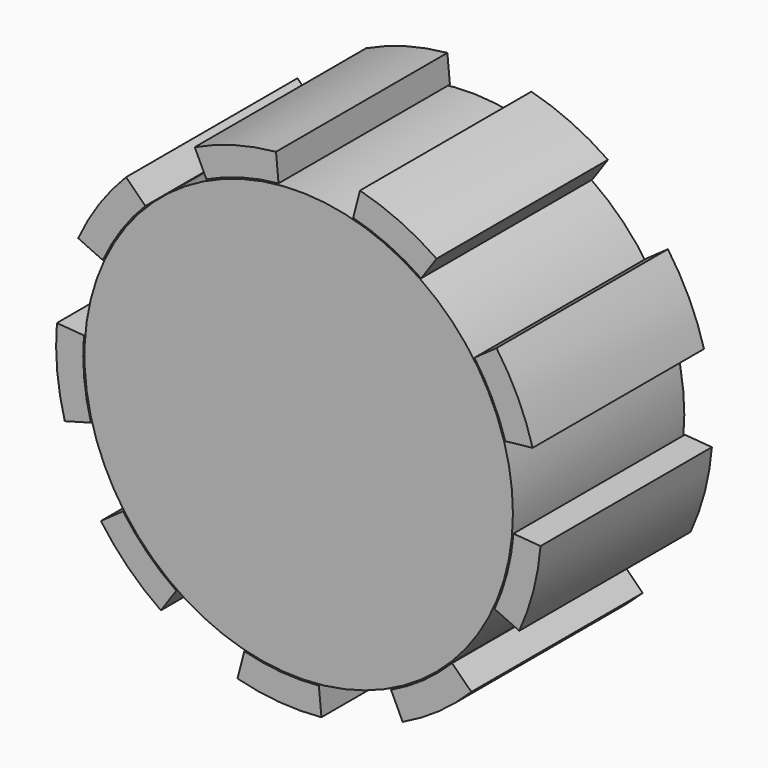
from build123d import *

# Parameters (mm, degrees)
F0_R     = 35
F1_DEPTH = 35
F4_DEPTH = 35


with BuildPart() as f1:
    # F0 (on Front) → F1 (new body)
    with BuildSketch(Plane.XZ):
        Circle(F0_R)
    extrude(amount=F1_DEPTH)


with BuildPart() as f4:
    # F3 (on face) → F4 (new body)
    with BuildSketch(Plane.XZ.offset(35)):
        with BuildLine():
            ThreePointArc((-20.005296, -28.970051), (-24.731967, -25.056048), (-28.70717, -20.380729))
            Line((-28.70717, -20.380729), (-32.319766, -22.945501))
            ThreePointArc((-32.319766, -22.945501), (-27.844312, -28.209175), (-22.522822, -32.615729))
            Line((-22.522822, -32.615729), (-20.005296, -28.970051))
        make_face()
        with BuildLine():
            ThreePointArc((3.296644, -35.051503), (-2.840069, -35.091448), (-8.890488, -34.065157))
            Line((-8.890488, -34.065157), (-10.009293, -38.352018))
            ThreePointArc((-10.009293, -38.352018), (-3.197472, -39.507461), (3.711504, -39.462489))
            Line((3.711504, -39.462489), (3.296644, -35.051503))
        make_face()
        with BuildLine():
            ThreePointArc((25.056048, -24.731967), (20.380729, -28.70717), (15.086152, -31.81012))
            Line((15.086152, -31.81012), (16.984639, -35.8132))
            ThreePointArc((16.984639, -35.8132), (22.945501, -32.319766), (28.209175, -27.844312))
            Line((28.209175, -27.844312), (25.056048, -24.731967))
        make_face()
        with BuildLine():
            ThreePointArc((35.091448, -2.840069), (34.065157, -8.890488), (32.003814, -14.670774))
            Line((32.003814, -14.670774), (36.031269, -16.516988))
            ThreePointArc((36.031269, -16.516988), (38.352018, -10.009293), (39.507461, -3.197472))
            Line((39.507461, -3.197472), (35.091448, -2.840069))
        make_face()
        with BuildLine():
            ThreePointArc((28.70717, 20.380729), (31.654838, 15.409314), (33.749412, 10.02262))
            Line((33.749412, 10.02262), (38.218469, 10.507707))
            ThreePointArc((38.218469, 10.507707), (35.8132, 16.984639), (32.319766, 22.945501))
            Line((32.319766, 22.945501), (28.70717, 20.380729))
        make_face()
        with BuildLine():
            Line((10.009293, 38.352018), (8.890488, 34.065157))
            ThreePointArc((8.890488, 34.065157), (14.670774, 32.003814), (20.005296, 28.970051))
            Line((20.005296, 28.970051), (22.522822, 32.615729))
            ThreePointArc((22.522822, 32.615729), (16.516988, 36.031269), (10.009293, 38.352018))
        make_face()
        with BuildLine():
            Line((-16.984639, 35.8132), (-15.086152, 31.81012))
            ThreePointArc((-15.086152, 31.81012), (-9.33319, 33.946535), (-3.296644, 35.051503))
            Line((-3.296644, 35.051503), (-3.711504, 39.462489))
            ThreePointArc((-3.711504, 39.462489), (-10.507707, 38.218469), (-16.984639, 35.8132))
        make_face()
        with BuildLine():
            Line((-36.031269, 16.516988), (-32.003814, 14.670774))
            ThreePointArc((-32.003814, 14.670774), (-28.970051, 20.005296), (-25.056048, 24.731967))
            Line((-25.056048, 24.731967), (-28.209175, 27.844312))
            ThreePointArc((-28.209175, 27.844312), (-32.615729, 22.522822), (-36.031269, 16.516988))
        make_face()
        with BuildLine():
            Line((-38.218469, -10.507707), (-33.946535, -9.33319))
            ThreePointArc((-33.946535, -9.33319), (-35.051503, -3.296644), (-35.091448, 2.840069))
            Line((-35.091448, 2.840069), (-39.507461, 3.197472))
            ThreePointArc((-39.507461, 3.197472), (-39.462489, -3.711504), (-38.218469, -10.507707))
        make_face()
    extrude(amount=-F4_DEPTH)


solid = Compound([f1.part, f4.part])
